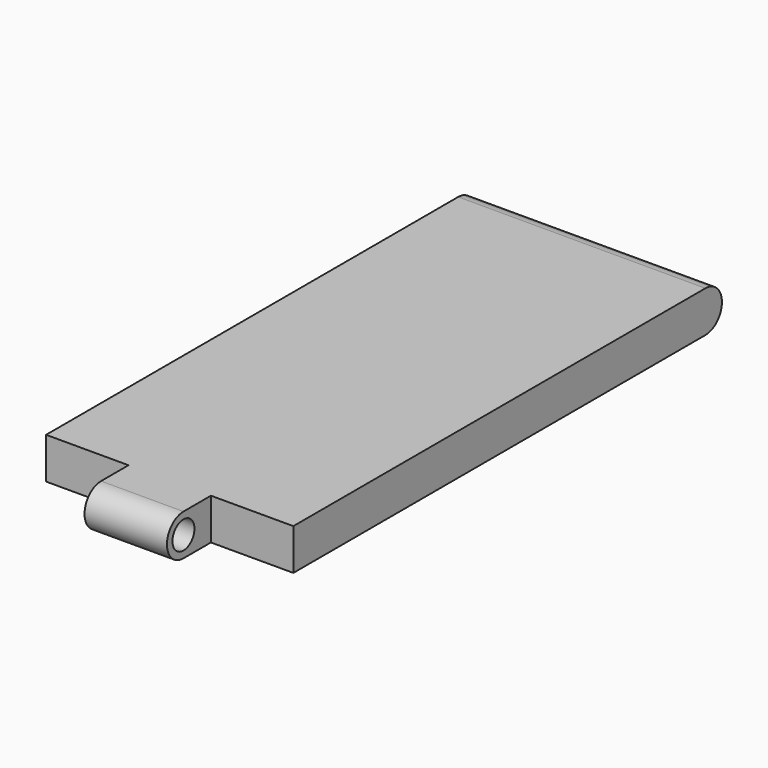
from build123d import *

# Parameters (mm, degrees)
F0_R     = 0.5
F1_DEPTH = 9
F2_W     = 3
F2_H     = 2
F3_DEPTH = 1.501


with BuildPart() as f1:
    # F0 (on Right) → F1 (new body)
    with BuildSketch(Plane.YZ):
        with BuildLine():
            ThreePointArc((0, 1.5), (-0.75, 0.75), (0, 0))
            Line((0, 0), (20, 0))
            ThreePointArc((20, 0), (20.75, 0.75), (20, 1.5))
            Line((20, 1.5), (0, 1.5))
        make_face()
        with Locations((0, 0.75)):
            Circle(F0_R, mode=Mode.SUBTRACT)
    extrude(amount=F1_DEPTH)

    # F2 (on Top) → F3 (cut, through all)
    with BuildSketch(Plane.XY):
        with Locations((1.5, 0.25)):
            Rectangle(F2_W, F2_H)
        with Locations((7.5, 0.25)):
            Rectangle(F2_W, F2_H)
    extrude(amount=F3_DEPTH, mode=Mode.SUBTRACT)


solid = f1.part
